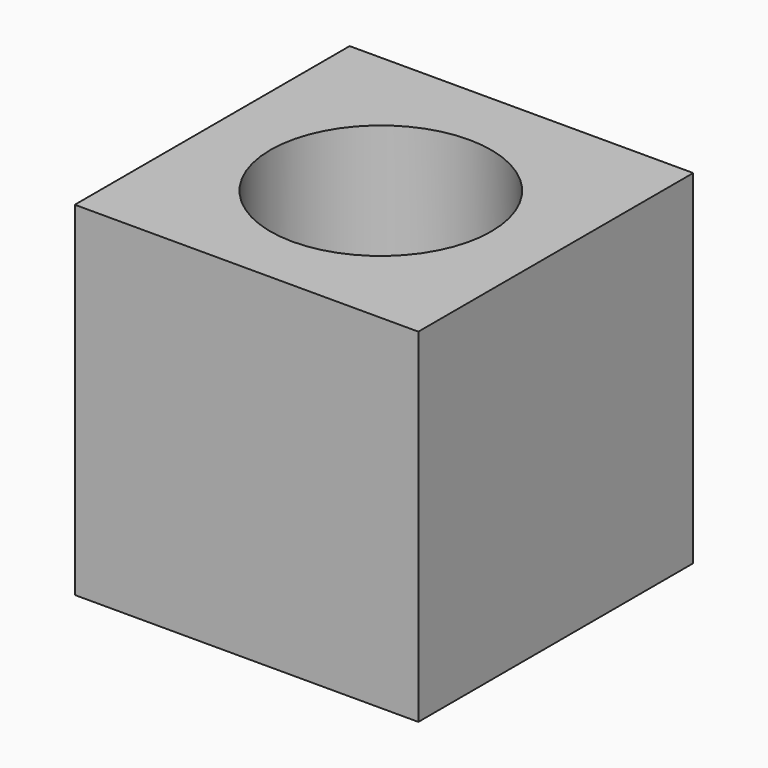
from build123d import *

# Parameters (mm, degrees)
F0_W     = 25.4
F0_H     = 25.4
F1_DEPTH = 25.4
F2_R     = 8.163201
F3_DEPTH = 12.701


with BuildPart() as f1:
    # F0 (on Front) → F1 (new body)
    with BuildSketch(Plane.XZ):
        Rectangle(F0_W, F0_H)
    extrude(amount=F1_DEPTH)

    # F2 (on Top) → F3 (cut, through all)
    with BuildSketch(Plane.XY):
        with Locations((0, -12.994025)):
            Circle(F2_R)
    extrude(amount=F3_DEPTH, mode=Mode.SUBTRACT)


solid = f1.part
